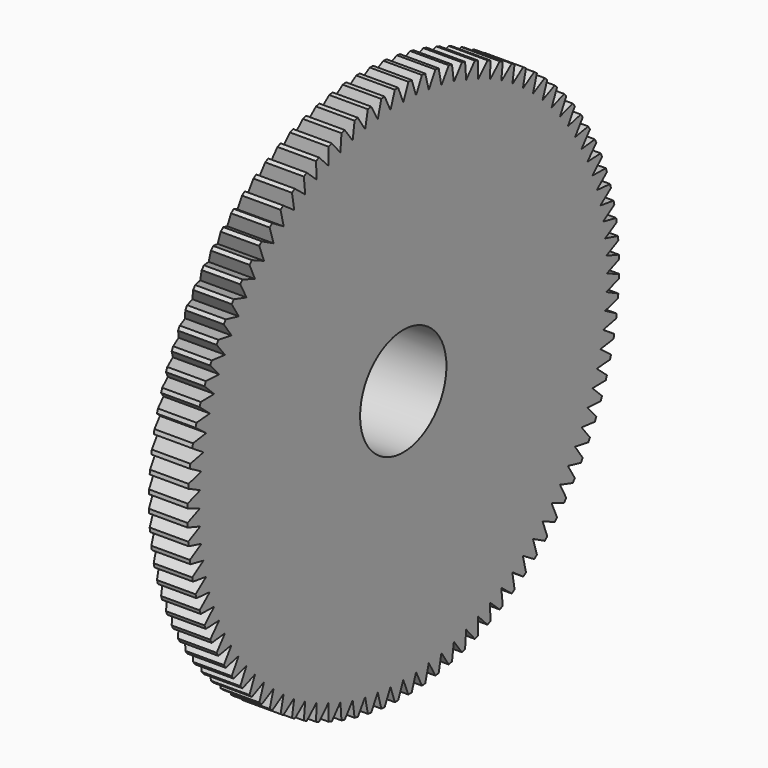
from build123d import *

# Parameters (mm, degrees)
F3_DEPTH = 3.0034513845
F4_COUNT = 100


with BuildPart() as f1:
    # F0 (on Front) → F1 (revolve)
    with BuildSketch(Plane.XZ):
        Polygon((0, 12.5), (0, 3.5), (5, 3.5), (5, 17.5), (2.5, 17.5), align=None)
    revolve(axis=Axis((4.048673274, 0, 0), (1, 0, 0)))

    # F2 (on face) → F3 (cut, through all)
    with BuildSketch(Plane.YZ.offset(5)):
        with BuildLine():
            ThreePointArc((0.4142135624, 17.4950972311), (0, 17.5), (-0.4142135624, 17.4950972311))
            Line((-0.4142135624, 17.4950972311), (0, 16.4950972311))
            Line((0, 16.4950972311), (0.4142135624, 17.4950972311))
        make_face()
    f3 = extrude(amount=-F3_DEPTH, mode=Mode.SUBTRACT)

    # F4: F3 ×100 about axis
    f4_axis = Axis((0, 0, 0), (-1, 0, 0))
    for i in range(1, F4_COUNT):
        add(f3.rotate(f4_axis, i * 360 / F4_COUNT), mode=Mode.SUBTRACT)


solid = f1.part
